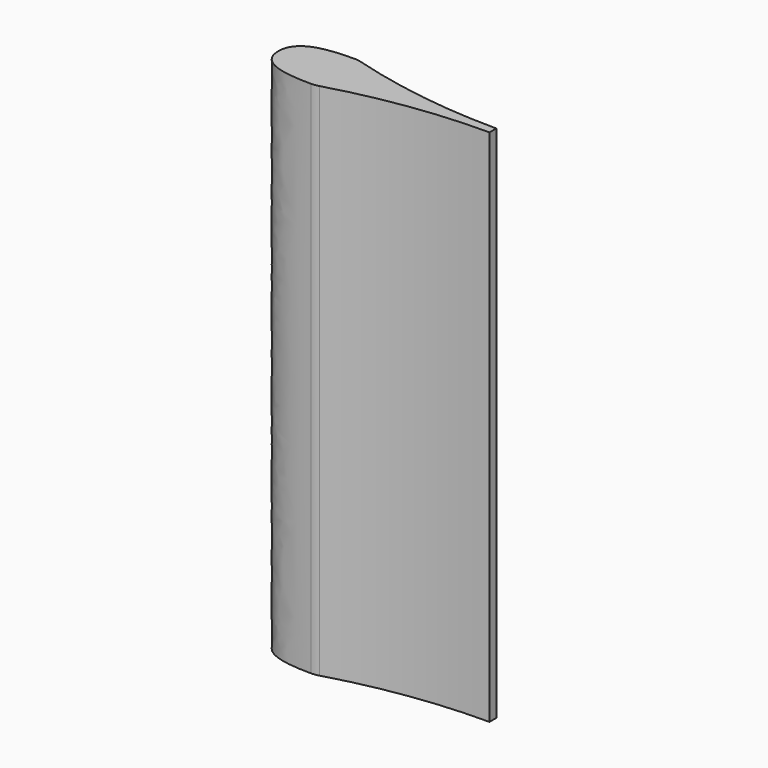
from build123d import *

# Parameters (mm, degrees)
F1_DEPTH = 3048


with BuildPart() as f1:
    # F0 (on Top) → F1 (new body)
    with BuildSketch(Plane.XY):
        with BuildLine():
            add(Edge.make_bspline(
                [(0, 0), (0, 131.530419), (146.456331, 159.5), (319, 159.5)],
                knots=[0, 0, 0, 0, 356.652842, 356.652842, 356.652842, 356.652842], degree=3))
            add(Edge.make_bspline(
                [(0, 0), (0, -131.530419), (146.456331, -159.5), (319, -159.5)],
                knots=[0, 0, 0, 0, 356.652842, 356.652842, 356.652842, 356.652842], degree=3))
            ThreePointArc((319, -159.5), (341.568452, -157.895266), (363.68278, -153.113354))
            ThreePointArc((363.68278, -153.113354), (807.286628, -57.190272), (1260, -25))
            Line((1260, -25), (1260, 0))
            Line((1260, 0), (1260, 25))
            ThreePointArc((1260, 25), (807.286628, 57.190272), (363.68278, 153.113354))
            ThreePointArc((363.68278, 153.113354), (341.568452, 157.895266), (319, 159.5))
        make_face()
    extrude(amount=F1_DEPTH)


solid = f1.part
